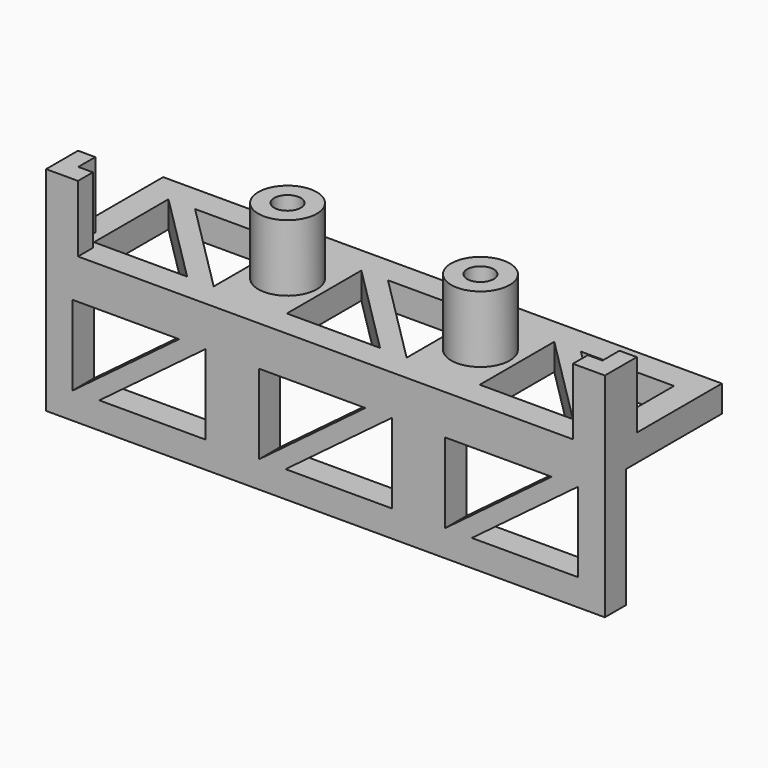
from build123d import *

# Parameters (mm, degrees)
PAD063_DEPTH    = 42
SKETCH118_R     = 1
POCKET024_DEPTH = 2
POCKET025_DEPTH = 2
SKETCH120_R     = 2.2
SKETCH120_R_2   = 1
PAD070_DEPTH    = 5


with BuildPart() as part:
    # Sketch102 → Pad063 (new body)
    with BuildSketch(Plane.YZ):
        Polygon((5, -11), (7, -11), (7, -2), (16, -2), (16, 0), (5, 0), align=None)
    extrude(amount=PAD063_DEPTH)

    # Sketch118 → Pocket024 (cut)
    with BuildSketch(Plane(origin=(0, 5, 0), x_dir=(1, 0, 0), z_dir=(0, 0, 1))):
        with Locations((13.75, 5.5)):
            Circle(SKETCH118_R)
        with Locations((28.25, 5.5)):
            Circle(SKETCH118_R)
        Polygon((2, 9), (2, 2), (9, 2), align=None)
        Polygon((4, 9), (11, 9), (11, 2), align=None)
        Polygon((31, 9), (31, 2), (38, 2), align=None)
        Polygon((33, 9), (40, 9), (40, 2), align=None)
        Polygon((16.5, 9), (16.5, 2), (23.5, 2), align=None)
        Polygon((18.5, 9), (25.5, 9), (25.5, 2), align=None)
    extrude(amount=-POCKET024_DEPTH, mode=Mode.SUBTRACT)

    # Sketch119 → Pocket025 (cut)
    with BuildSketch(Plane.XZ.offset(-5)):
        Polygon((2, -3), (10, -3), (2, -9), align=None)
        Polygon((12, -3), (4, -9), (12, -9), align=None)
        Polygon((30, -3), (38, -3), (30, -9), align=None)
        Polygon((40, -3), (32, -9), (40, -9), align=None)
        Polygon((16, -3), (24, -3), (16, -9), align=None)
        Polygon((26, -3), (18, -9), (26, -9), align=None)
    extrude(amount=-POCKET025_DEPTH, mode=Mode.SUBTRACT)

    # Sketch120 → Pad070 (join)
    with BuildSketch(Plane.XY):
        with Locations((13.75, 10.5)):
            Circle(SKETCH120_R)
        with Locations((13.75, 10.5)):
            Circle(SKETCH120_R_2, mode=Mode.SUBTRACT)
        with Locations((28.25, 10.5)):
            Circle(SKETCH120_R)
        with Locations((28.25, 10.5)):
            Circle(SKETCH120_R_2, mode=Mode.SUBTRACT)
        Polygon((0, 8), (1.3, 8), (1.3, 6.4), (2.4, 6.4), (2.4, 5), (0, 5), align=None)
        Polygon((42, 5), (42, 8), (40.7, 8), (40.7, 6.4), (39.6, 6.4), (39.6, 5), align=None)
    extrude(amount=PAD070_DEPTH)


with BuildPart() as part_1:
    # Body095 placement: moved
    add(part.part.moved(Location((27, 0, 47.8))))


solid = part_1.part
